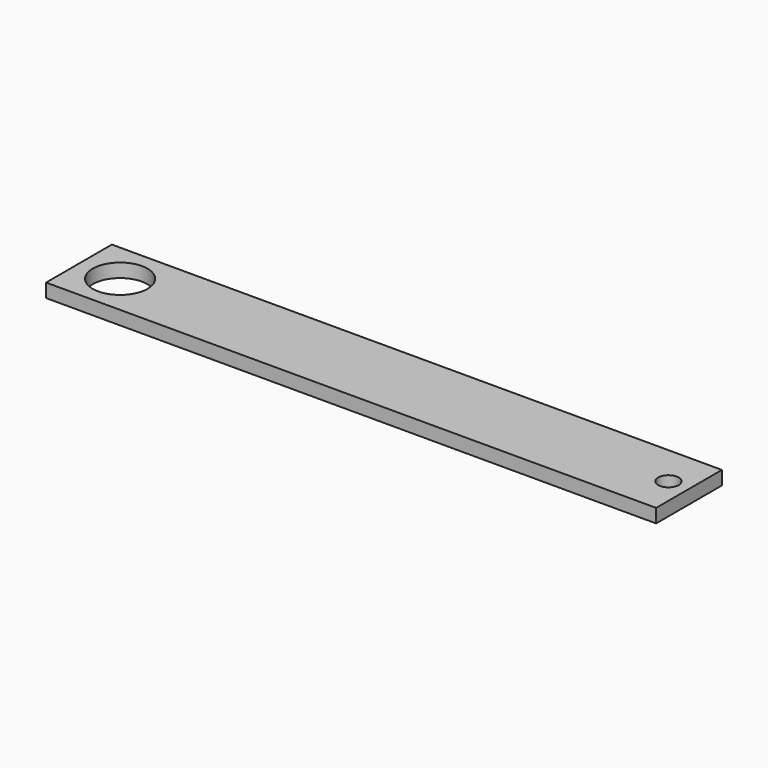
from build123d import *

# Parameters (mm, degrees)
SKETCH_W   = 89
SKETCH_H   = 12
SKETCH_R   = 4
SKETCH_R_2 = 1.5
PAD_DEPTH  = 2


with BuildPart() as part:
    # Sketch → Pad (new body)
    with BuildSketch(Plane.XY):
        with Locations((38.5, 0)):
            Rectangle(SKETCH_W, SKETCH_H)
        Circle(SKETCH_R, mode=Mode.SUBTRACT)
        with Locations((80, 0)):
            Circle(SKETCH_R_2, mode=Mode.SUBTRACT)
    extrude(amount=PAD_DEPTH)


solid = part.part
